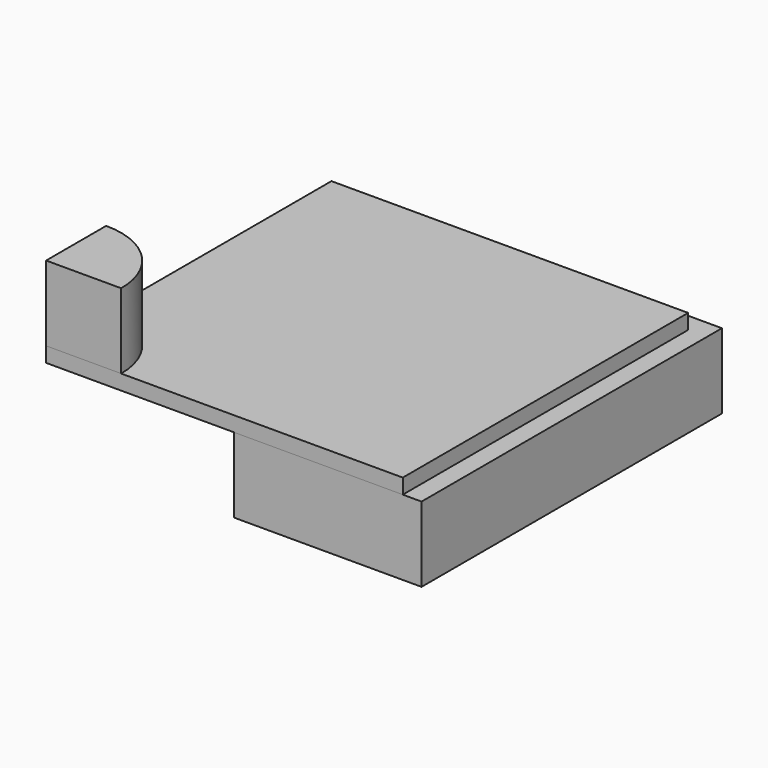
from build123d import *

# Parameters (mm, degrees)
F1_DEPTH = 2
F3_DEPTH = 0.4
F5_DEPTH = 2


with BuildPart() as f1:
    # F0 (on Top) → F1 (new body)
    with BuildSketch(Plane.XY):
        with BuildLine():
            ThreePointArc((0, 5), (3.5355339059, 3.5355339059), (5, 0))
            Line((5, 0), (10, 0))
            Line((10, 0), (10, 10))
            Line((10, 10), (0, 10))
            Line((0, 10), (0, 5))
        make_face()
    extrude(amount=-F1_DEPTH)


with BuildPart() as f3:
    # F2 (on face) → F3 (new body)
    with BuildSketch(Plane.XY):
        with BuildLine():
            Line((0, 5), (0, 0))
            Line((0, 0), (5, 0))
            ThreePointArc((5, 0), (3.5355339059, 3.5355339059), (0, 5))
        make_face()
        with BuildLine():
            ThreePointArc((0, 5), (3.5355339059, 3.5355339059), (5, 0))
            Line((5, 0), (9.5, 0))
            Line((9.5, 0), (9.5, 9.5))
            Line((9.5, 9.5), (0, 9.5))
            Line((0, 9.5), (0, 5))
        make_face()
    extrude(amount=F3_DEPTH)


with BuildPart() as f5:
    # F4 (on face) → F5 (new body)
    with BuildSketch(Plane.XY.offset(0.4)):
        with BuildLine():
            Line((0, 0), (2, 0))
            ThreePointArc((2, 0), (1.4142135624, 1.4142135624), (0, 2))
            Line((0, 2), (0, 0))
        make_face()
    extrude(amount=F5_DEPTH)


solid = Compound([f1.part, f3.part, f5.part])
